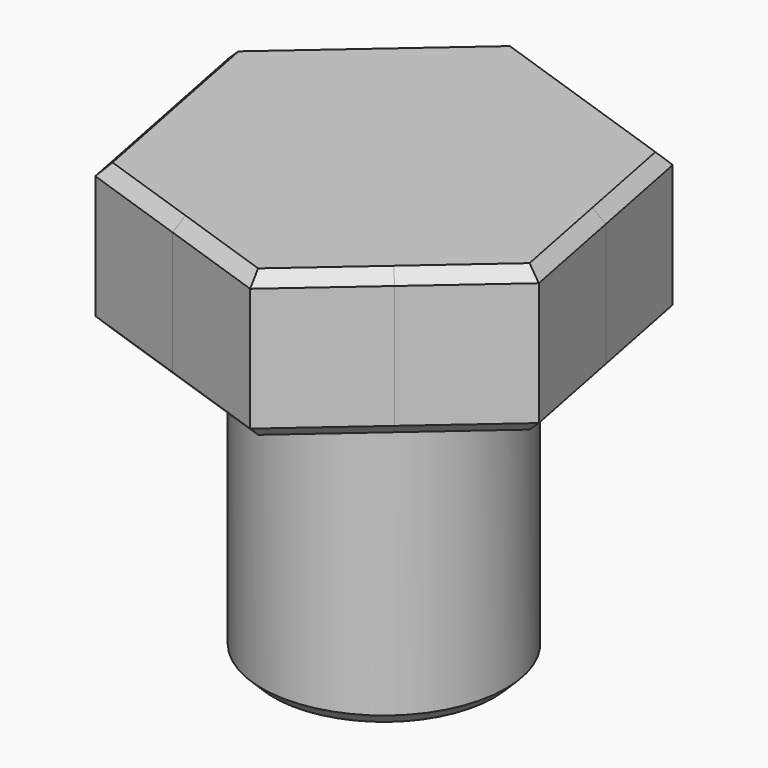
from build123d import *

# Parameters (mm, degrees)
F1_DEPTH = 9.525
F2_R     = 7.9375
F3_DEPTH = 19.05
F4_SIZE2 = 0.762
F4_SIZE  = 0.762


with BuildPart() as f1:
    # F0 (on Top) → F1 (new body)
    with BuildSketch(Plane.XY):
        with BuildLine():
            ThreePointArc((12.4640951626, 2.4364588605), (12.6408862143, 1.2239263531), (12.7, 0))
            ThreePointArc((12.7, 0), (11.559292099, -5.2604910579), (8.3420840677, -9.5759925547))
            Line((8.3420840677, -9.5759925547), (13.8707859253, -4.7596881355))
            Line((13.8707859253, -4.7596881355), (12.4640951626, 2.4364588605))
        make_face()
        with BuildLine():
            Line((2.8133821232, -14.3922970495), (8.3420840677, -9.5759925547))
            ThreePointArc((8.3420840677, -9.5759925547), (2.4364604633, -12.4640948492), (-4.1220107511, -12.0124530121))
            Line((-4.1220107511, -12.0124530121), (2.8133821232, -14.3922970495))
        make_face()
        with BuildLine():
            ThreePointArc((4.1220108652, 12.0124529729), (9.5759931131, 8.3420834267), (12.4640951626, 2.4364588605))
            Line((12.4640951626, 2.4364588605), (11.0574038021, 9.632608914))
            Line((11.0574038021, 9.632608914), (4.1220108652, 12.0124529729))
        make_face()
        with BuildLine():
            ThreePointArc((-12.4640951419, -2.4364589661), (-12.0124527553, 4.1220114996), (-8.3420840651, 9.5759925569))
            Line((-8.3420840651, 9.5759925569), (-13.8707859253, 4.7596881355))
            Line((-13.8707859253, 4.7596881355), (-12.4640951419, -2.4364589661))
        make_face()
        with BuildLine():
            Line((-11.0574038021, -9.632608914), (-4.1220107511, -12.0124530121))
            ThreePointArc((-4.1220107511, -12.0124530121), (-9.5759930381, -8.3420835128), (-12.4640951419, -2.4364589661))
            Line((-12.4640951419, -2.4364589661), (-11.0574038021, -9.632608914))
        make_face()
        with BuildLine():
            ThreePointArc((-8.3420840651, 9.5759925569), (-2.4364604025, 12.4640948611), (4.1220108652, 12.0124529729))
            Line((4.1220108652, 12.0124529729), (-2.8133821232, 14.3922970495))
            Line((-2.8133821232, 14.3922970495), (-8.3420840651, 9.5759925569))
        make_face()
        with BuildLine():
            ThreePointArc((8.3420840677, -9.5759925547), (11.559292099, -5.2604910579), (12.7, 0))
            ThreePointArc((12.7, 0), (12.6408862143, 1.2239263531), (12.4640951626, 2.4364588605))
            ThreePointArc((12.4640951626, 2.4364588605), (9.5759931131, 8.3420834267), (4.1220108652, 12.0124529729))
            ThreePointArc((4.1220108652, 12.0124529729), (-2.4364604025, 12.4640948611), (-8.3420840651, 9.5759925569))
            ThreePointArc((-8.3420840651, 9.5759925569), (-12.0124527553, 4.1220114996), (-12.4640951419, -2.4364589661))
            ThreePointArc((-12.4640951419, -2.4364589661), (-9.5759930381, -8.3420835128), (-4.1220107511, -12.0124530121))
            ThreePointArc((-4.1220107511, -12.0124530121), (2.4364604633, -12.4640948492), (8.3420840677, -9.5759925547))
        make_face()
    extrude(amount=F1_DEPTH)

    # F2 (on face) → F3 (join)
    with BuildSketch(Plane(origin=(0, 0, 0), x_dir=(1, 0, 0), z_dir=(0, 0, -1))):
        Circle(F2_R)
    extrude(amount=F3_DEPTH)

    # F4
    f4_edges = [f1.edges().sort_by_distance(p)[0] for p in [
        (4.122011, 12.012453, 9.525),
        (12.464095, 2.43646, 9.525),
        (8.342084, -9.575993, 9.525),
        (-12.464095, -2.43646, 9.525),
        (-4.122011, -12.012453, 9.525),
        (-8.342084, 9.575993, 9.525),
        (-7.9375, 0, -19.05),
        (8.342084, -9.575993, 0),
        (12.464095, 2.43646, 0),
        (4.122011, 12.012453, 0),
        (-8.342084, 9.575993, 0),
        (-12.464095, -2.43646, 0),
        (-4.122011, -12.012453, 0),
    ]]
    chamfer(f4_edges, length=F4_SIZE, length2=F4_SIZE2)


solid = f1.part
